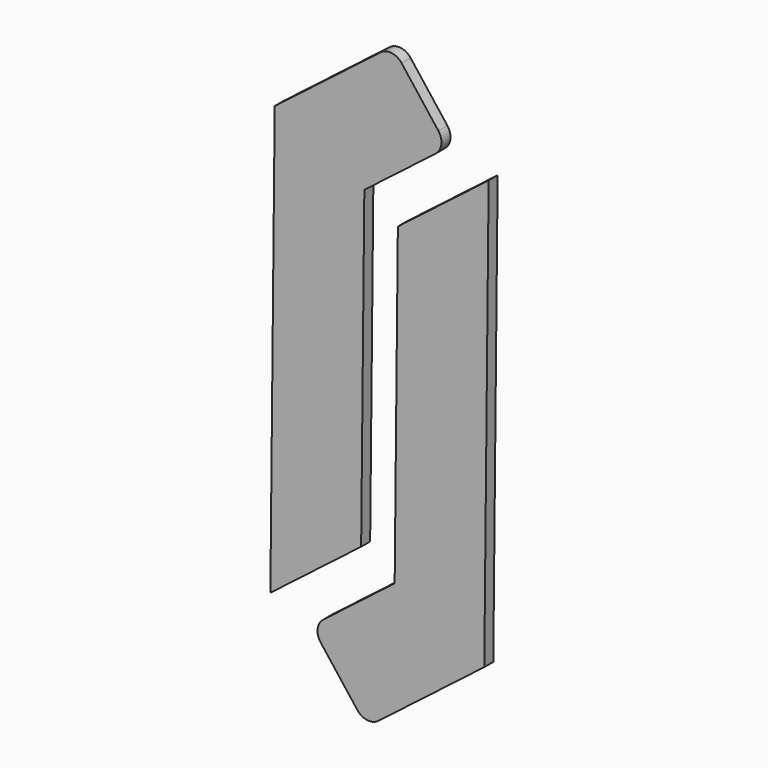
from build123d import *

# Parameters (mm, degrees)
F1_DEPTH = 4.7625


with BuildPart() as f1:
    # F0 (on Front) → F1 (new body)
    with BuildSketch(Plane.XZ):
        with BuildLine():
            Line((-57.24713, 28.58569), (-87.406236, 5.303973))
            ThreePointArc((-87.406236, 5.303973), (-89.824011, 1.087964), (-88.552468, -3.602831))
            Line((-88.552468, -3.602831), (-73.031323, -23.708901))
            ThreePointArc((-73.031323, -23.708901), (-68.815314, -26.126676), (-64.124519, -24.855133))
            Line((-64.124519, -24.855133), (-19.336098, 9.719875))
            Line((-19.336098, 9.719875), (-17.495765, 191.573752))
            Line((-17.495765, 191.573752), (-55.897718, 161.928862))
            Line((-55.897718, 161.928862), (-57.24713, 28.58569))
        make_face()
        with BuildLine():
            Line((-38.771279, 203.160522), (-54.292424, 223.266593))
            ThreePointArc((-54.292424, 223.266593), (-58.508433, 225.684368), (-63.199227, 224.412825))
            Line((-63.199227, 224.412825), (-107.987649, 189.837817))
            Line((-107.987649, 189.837817), (-109.827981, 7.98394))
            Line((-109.827981, 7.98394), (-71.426029, 37.62883))
            Line((-71.426029, 37.62883), (-70.076617, 170.972002))
            Line((-70.076617, 170.972002), (-39.917511, 194.253719))
            ThreePointArc((-39.917511, 194.253719), (-37.499736, 198.469728), (-38.771279, 203.160522))
        make_face()
    extrude(amount=F1_DEPTH)


solid = f1.part
